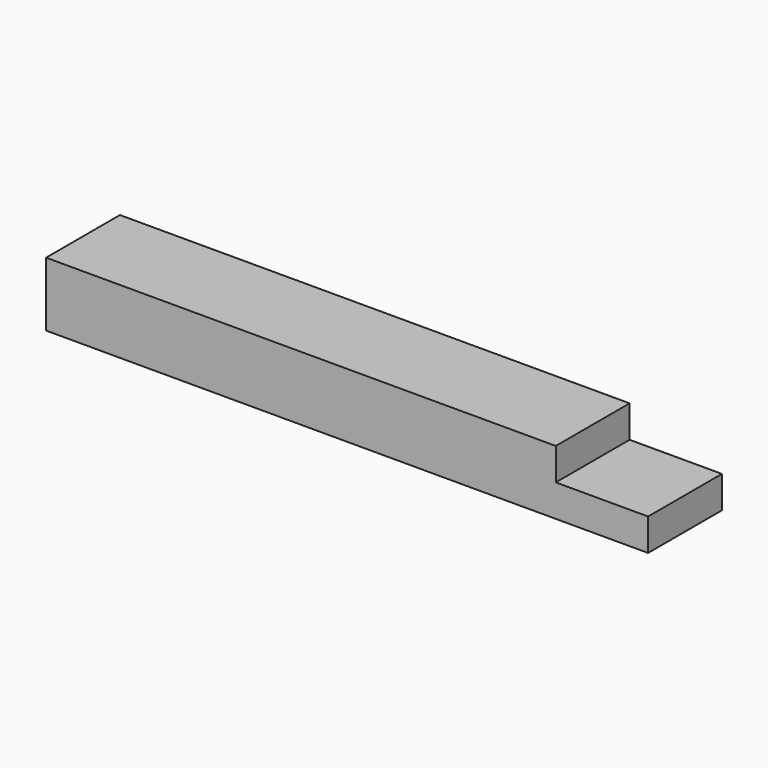
from build123d import *

# Parameters (mm, degrees)
SKETCH_W     = 150
SKETCH_H     = 23
PAD_DEPTH    = 16
SKETCH001_W  = 30
SKETCH001_H  = 30
POCKET_DEPTH = 8


with BuildPart() as part:
    # Sketch → Pad (new body)
    with BuildSketch(Plane.XY):
        with Locations((75, -11.5)):
            Rectangle(SKETCH_W, SKETCH_H)
    extrude(amount=PAD_DEPTH)

    # Sketch001 (on Face6 of Pad) → Pocket (cut)
    with BuildSketch(Plane.XY.offset(16)):
        with Locations((142, -10)):
            Rectangle(SKETCH001_W, SKETCH001_H)
    extrude(amount=-POCKET_DEPTH, mode=Mode.SUBTRACT)


solid = part.part
